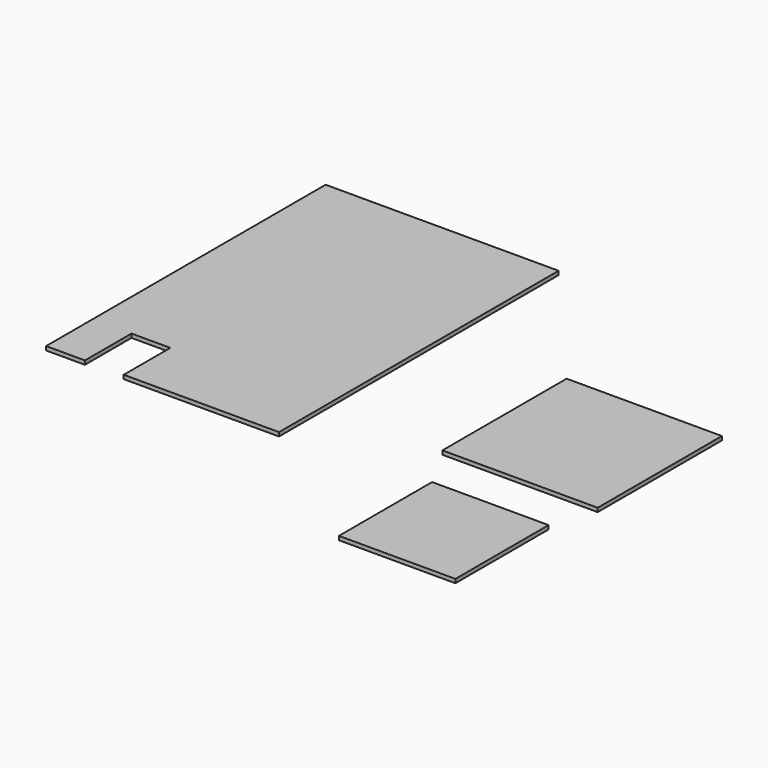
from build123d import *

# Parameters (mm, degrees)
F1_DEPTH = 1
F2_W     = 40
F2_H     = 40
F2_W_2   = 30
F2_H_2   = 30
F3_DEPTH = 1


with BuildPart() as f1:
    # F0 (on Top) → F1 (new body)
    with BuildSketch(Plane.XY):
        Polygon((-5, 95), (-65, 95), (-65, 5), (-55, 5), (-55, 20), (-45, 20), (-45, 5), (-5, 5), align=None)
    extrude(amount=F1_DEPTH)


with BuildPart() as f3:
    # F2 (on Top) → F3 (new body)
    with BuildSketch(Plane.XY):
        with Locations((45.620929, 39.316635)):
            Rectangle(F2_W, F2_H)
        with Locations((47.628548, -7.753367)):
            Rectangle(F2_W_2, F2_H_2)
    extrude(amount=F3_DEPTH)


solid = Compound([f1.part, f3.part])
